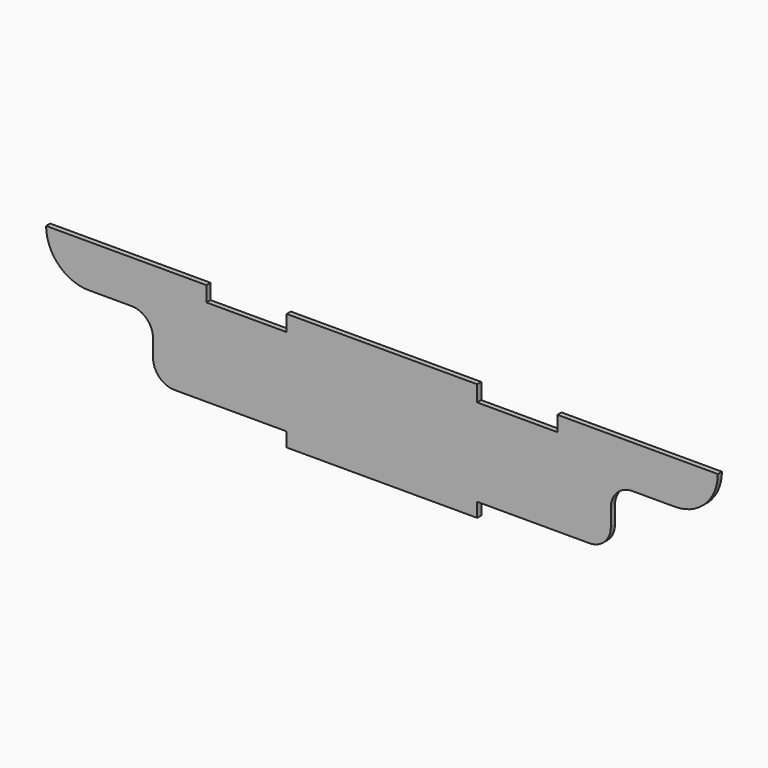
from build123d import *

# Parameters (mm, degrees)
F1_DEPTH = 3.048


with BuildPart() as f1:
    # F0 (on Front) → F1 (new body)
    with BuildSketch(Plane.XZ):
        Polygon((-56.515, -34.925), (56.515, -34.925), (56.515, -26.50058), (56.515, 25.4), (56.515, 34.925), (-56.515, 34.925), (-56.515, 25.4), (-56.515, -26.50058), align=None)
        with BuildLine():
            Line((56.515, 25.4), (56.515, -26.50058))
            Line((56.515, -26.50058), (123.19, -26.50058))
            ThreePointArc((123.19, -26.50058), (132.170256, -22.780836), (135.89, -13.80058))
            Line((135.89, -13.80058), (135.89, -3.64058))
            ThreePointArc((135.89, -3.64058), (139.609744, 5.339676), (148.59, 9.05942))
            Line((148.59, 9.05942), (173.99, 9.05942))
            ThreePointArc((173.99, 9.05942), (191.950512, 16.498908), (199.39, 34.45942))
            Line((199.39, 34.45942), (104.14, 34.45942))
            Line((104.14, 34.45942), (104.14, 25.4))
            Line((104.14, 25.4), (56.515, 25.4))
        make_face()
        with BuildLine():
            Line((-123.19, -26.50058), (-56.515, -26.50058))
            Line((-56.515, -26.50058), (-56.515, 25.4))
            Line((-56.515, 25.4), (-104.14, 25.4))
            Line((-104.14, 25.4), (-104.14, 34.45942))
            Line((-104.14, 34.45942), (-199.39, 34.45942))
            ThreePointArc((-199.39, 34.45942), (-191.950512, 16.498908), (-173.99, 9.05942))
            Line((-173.99, 9.05942), (-148.59, 9.05942))
            ThreePointArc((-148.59, 9.05942), (-139.609744, 5.339676), (-135.89, -3.64058))
            Line((-135.89, -3.64058), (-135.89, -13.80058))
            ThreePointArc((-135.89, -13.80058), (-132.170256, -22.780836), (-123.19, -26.50058))
        make_face()
    extrude(amount=F1_DEPTH)


solid = f1.part
